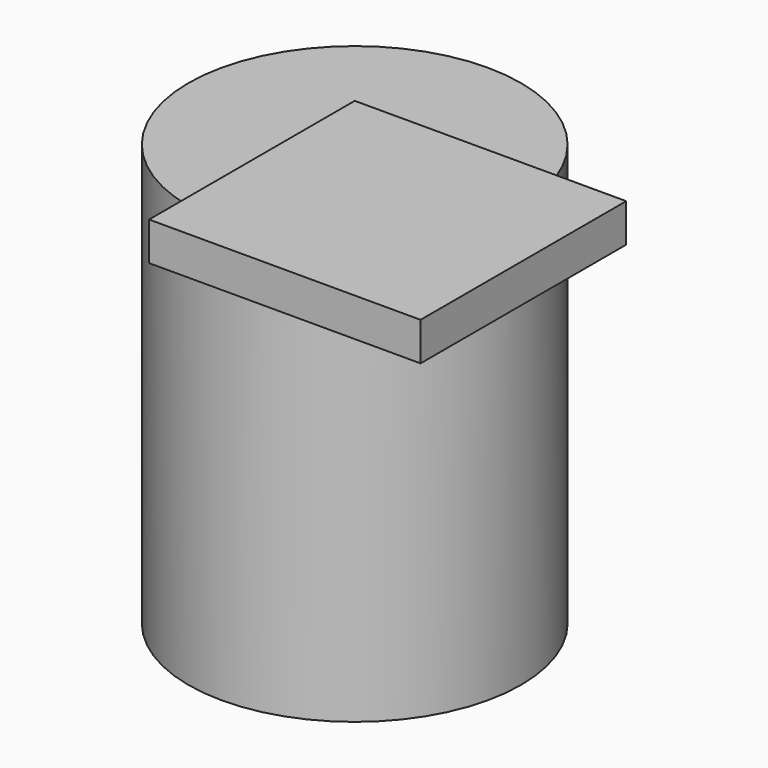
from build123d import *

# Parameters (mm, degrees)
F0_R     = 29.7313
F1_DEPTH = 75.438
F2_W     = 48.546776
F2_H     = 45.965809
F3_DEPTH = 6.858


with BuildPart() as f1:
    # F0 (on Top) → F1 (new body)
    with BuildSketch(Plane.XY):
        Circle(F0_R)
    extrude(amount=F1_DEPTH)

    # F2 (on face) → F3 (join)
    with BuildSketch(Plane.XY.offset(75.438)):
        with Locations((24.273388, -22.982905)):
            Rectangle(F2_W, F2_H)
    extrude(amount=F3_DEPTH)


solid = f1.part
